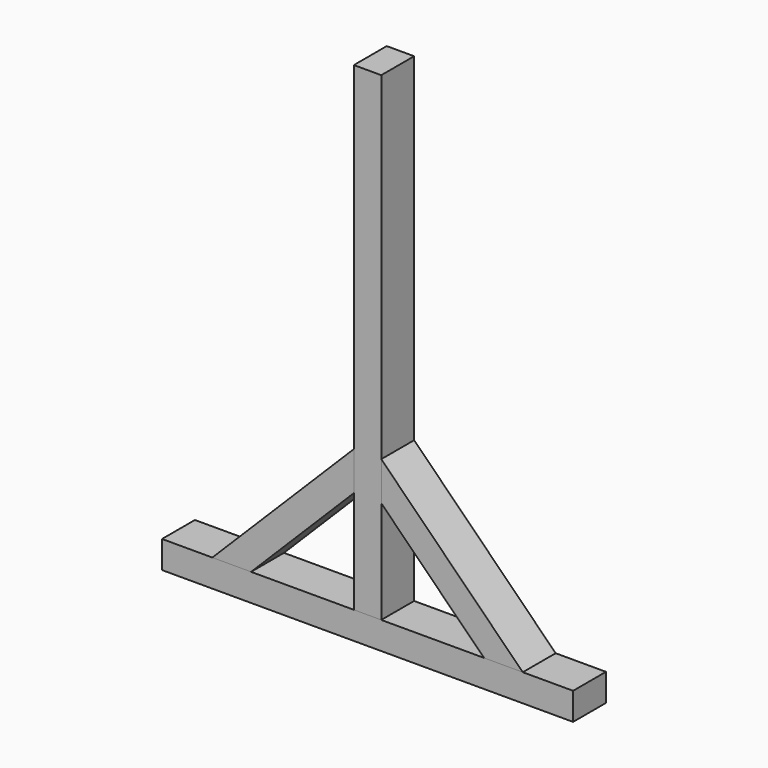
from build123d import *

# Parameters (mm, degrees)
F0_W     = 600
F0_H     = 60
F1_DEPTH = 40
F3_DEPTH = 700
F5_DEPTH = 60


with BuildPart() as f1:
    # F0 (on Top) → F1 (new body)
    with BuildSketch(Plane.XY):
        with Locations((-300, 30)):
            Rectangle(F0_W, F0_H)
    extrude(amount=F1_DEPTH)


with BuildPart() as f3:
    # F2 (on face) → F3 (new body)
    with BuildSketch(Plane.XY.offset(40)):
        Polygon((-320, 0), (-300, 0), (-280, 0), (-280, 60), (-300, 60), (-320, 60), align=None)
    extrude(amount=F3_DEPTH)


with BuildPart() as f5:
    # F4 (on face) → F5 (new body)
    with BuildSketch(Plane.XZ):
        Polygon((-470, 40), (-320, 190), (-320, 246.568542), (-526.568542, 40), align=None)
    extrude(amount=-F5_DEPTH)


with BuildPart() as f7_1:
    # F7: instance of F5
    add(f5.part.mirror(Plane(origin=(-300, 30, 390), x_dir=(0, -1, 0), z_dir=(-1, 0, 0))))


solid = Compound([f1.part, f3.part, f5.part, f7_1.part])
